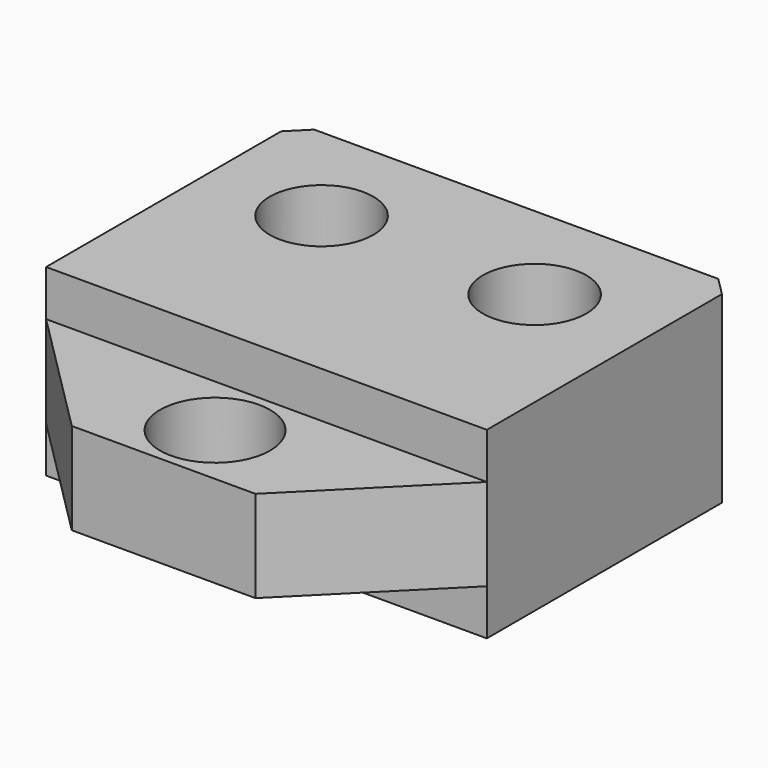
from build123d import *

# Parameters (mm, degrees)
F0_W      = 120
F0_H      = 120
F1_DEPTH  = 50
F2_SIZE   = 35
F4_DEPTH  = 12.5
F6_DEPTH  = 12.5
F7_R      = 15
F8_DEPTH  = 37.501
F9_R      = 14.1
F10_DEPTH = 50.001
F11_SIZE  = 5


with BuildPart() as f1:
    # F0 (on Top) → F1 (new body)
    with BuildSketch(Plane.XY):
        with Locations((3.824193, -6.655599)):
            Rectangle(F0_W, F0_H)
    extrude(amount=F1_DEPTH)

    # F2
    f2_edges = [f1.edges().sort_by_distance(p)[0] for p in [
        (-56.175807, -66.655599, 25),
        (63.824193, -66.655599, 25),
    ]]
    chamfer(f2_edges, length=F2_SIZE)

    # F3 (on face) → F4 (cut)
    with BuildSketch(Plane.XY.offset(50)):
        Polygon((63.824193, -31.655599), (-56.175807, -31.655599), (-21.175807, -66.655599), (28.824193, -66.655599), align=None)
    extrude(amount=-F4_DEPTH, mode=Mode.SUBTRACT)

    # F5 (on face) → F6 (cut)
    with BuildSketch(Plane(origin=(0, 0, 0), x_dir=(1, 0, 0), z_dir=(0, 0, -1))):
        Polygon((-56.175807, 31.655599), (63.824193, 31.655599), (28.824193, 66.655599), (-21.175807, 66.655599), align=None)
    extrude(amount=-F6_DEPTH, mode=Mode.SUBTRACT)

    # F7 (on face) → F8 (cut, through all)
    with BuildSketch(Plane.XY.offset(37.5)):
        with Locations((3.824193, -49.155599)):
            Circle(F7_R)
    extrude(amount=-F8_DEPTH, mode=Mode.SUBTRACT)

    # F9 (on face) → F10 (cut, through all)
    with BuildSketch(Plane.XY.offset(50)):
        with Locations((-25.175807, 23.344401)):
            Circle(F9_R)
        with Locations((32.824193, 23.344401)):
            Circle(F9_R)
    extrude(amount=-F10_DEPTH, mode=Mode.SUBTRACT)

    # F11
    f11_edges = [f1.edges().sort_by_distance(p)[0] for p in [
        (63.824193, 53.344401, 25),
        (-56.175807, 53.344401, 25),
    ]]
    chamfer(f11_edges, length=F11_SIZE)


solid = f1.part
